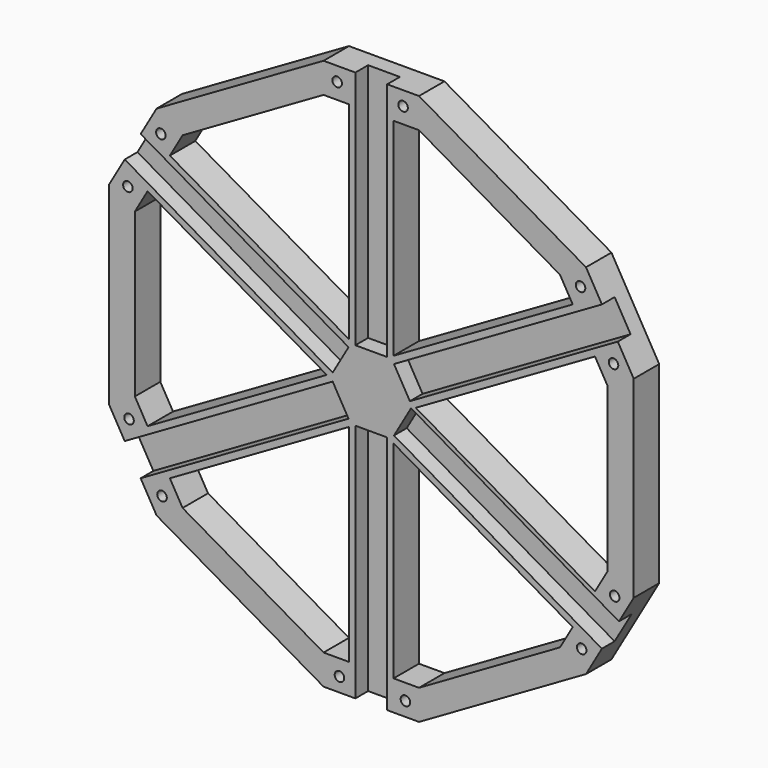
from build123d import *

# Parameters (mm, degrees)
F1_DEPTH = 10
F2_W     = 10
F2_H     = 75.4743308471
F2_H_2   = 22.4482722858
F3_DEPTH = 5
F4_R     = 1.5
F5_DEPTH = 25


with BuildPart() as f1:
    # F0 (on Front) → F1 (new body)
    with BuildSketch(Plane.XZ):
        Polygon((15, 86.6025403784), (-15, 86.6025403784), (-15, 77.153906079), (-7, 77.153906079), (-7, 12.124355653), (-63.3172426656, 44.639130866), (-59.3172426656, 51.5673340962), (-67.5, 56.291651246), (-82.5, 30.3108891325), (-74.3172426656, 25.5865719827), (-70.3172426656, 32.514775213), (-14, 0), (-70.3172426656, -32.514775213), (-74.3172426656, -25.5865719827), (-82.5, -30.3108891325), (-67.5, -56.291651246), (-59.3172426656, -51.5673340962), (-63.3172426656, -44.639130866), (-7, -12.124355653), (-7, -77.153906079), (-15, -77.153906079), (-15, -86.6025403784), (15, -86.6025403784), (15, -77.153906079), (7, -77.153906079), (7, -12.124355653), (63.3172426656, -44.639130866), (59.3172426656, -51.5673340962), (67.5, -56.291651246), (82.5, -30.3108891325), (74.3172426656, -25.5865719827), (70.3172426656, -32.514775213), (14, 0), (70.3172426656, 32.514775213), (74.3172426656, 25.5865719827), (82.5, 30.3108891325), (67.5, 56.291651246), (59.3172426656, 51.5673340962), (63.3172426656, 44.639130866), (7, 12.124355653), (7, 77.153906079), (15, 77.153906079), align=None)
        Polygon((-59.3172426656, -51.5673340962), (-67.5, -56.291651246), (-15, -86.6025403784), (-15, -77.153906079), align=None)
        Polygon((-74.3172426656, 25.5865719827), (-82.5, 30.3108891325), (-82.5, -30.3108891325), (-74.3172426656, -25.5865719827), align=None)
        Polygon((-15, 77.153906079), (-15, 86.6025403784), (-67.5, 56.291651246), (-59.3172426656, 51.5673340962), align=None)
        Polygon((67.5, 56.291651246), (15, 86.6025403784), (15, 77.153906079), (59.3172426656, 51.5673340962), align=None)
        Polygon((82.5, -30.3108891325), (82.5, 30.3108891325), (74.3172426656, 25.5865719827), (74.3172426656, -25.5865719827), align=None)
        Polygon((15, -86.6025403784), (67.5, -56.291651246), (59.3172426656, -51.5673340962), (15, -77.153906079), align=None)
    extrude(amount=F1_DEPTH)

    # F2 (on face) → F3 (cut)
    with BuildSketch(Plane.XZ.offset(10)):
        Polygon((-77.5, 38.9711431703), (-72.5, 47.6313972081), (-109.8431605698, 69.1914810155), (-114.8431605698, 60.5312269776), align=None)
        with Locations((0, 48.8653749549)):
            Rectangle(F2_W, F2_H)
        Polygon((121.6227966993, 75.9924571058), (72.5, 47.6313972081), (77.5, 38.9711431703), (126.6227966993, 67.332203068), align=None)
        Polygon((77.8658404617, -38.3374889031), (72.5, -47.6313972081), (106.878233392, -67.4796795113), (112.2440738537, -58.1857712063), align=None)
        with Locations((0, -97.8266765213)):
            Rectangle(F2_W, F2_H_2)
        Polygon((-72.5, -47.6313972081), (-77.5, -38.9711431703), (-141.8294904827, -76.1117918173), (-136.8294904827, -84.7720458552), align=None)
        with Locations((0, -48.8653749549)):
            Rectangle(F2_W, F2_H)
        Polygon((-7.1373121527, -9.8942317846), (-12.1373121527, -1.2339777467), (-77.5, -38.9711431703), (-72.5, -47.6313972081), align=None)
        Polygon((-12.1373121527, 1.2339777467), (-7.1373121527, 9.8942317846), (-72.5, 47.6313972081), (-77.5, 38.9711431703), align=None)
        Polygon((72.5, 47.6313972081), (7.1373121527, 9.8942317846), (12.1373121527, 1.2339777467), (77.5, 38.9711431703), align=None)
        Polygon((12.5031526145, -0.6003234796), (7.1373121527, -9.8942317846), (72.5, -47.6313972081), (77.8658404617, -38.3374889031), align=None)
    extrude(amount=-F3_DEPTH, mode=Mode.SUBTRACT)

    # F4 (on face) → F5 (cut)
    with BuildSketch(Plane.XZ.offset(10)):
        with Locations((66.1473696845, -49.7372070773)):
            Circle(F4_R)
        with Locations((76.5132101462, -31.7830447345)):
            Circle(F4_R)
        with Locations((76.1473696845, 32.4166990016)):
            Circle(F4_R)
        with Locations((65.7815292228, 50.3708613445)):
            Circle(F4_R)
        with Locations((10, 82.153906079)):
            Circle(F4_R)
        with Locations((-10.7316809234, 82.153906079)):
            Circle(F4_R)
        with Locations((-66.1473696845, 49.7372070773)):
            Circle(F4_R)
        with Locations((-76.5132101462, 31.7830447345)):
            Circle(F4_R)
        with Locations((-76.1473696845, -32.4166990016)):
            Circle(F4_R)
        with Locations((-65.7815292228, -50.3708613445)):
            Circle(F4_R)
        with Locations((-10, -82.153906079)):
            Circle(F4_R)
        with Locations((10.7316809234, -82.153906079)):
            Circle(F4_R)
    extrude(amount=-F5_DEPTH, mode=Mode.SUBTRACT)


solid = f1.part
